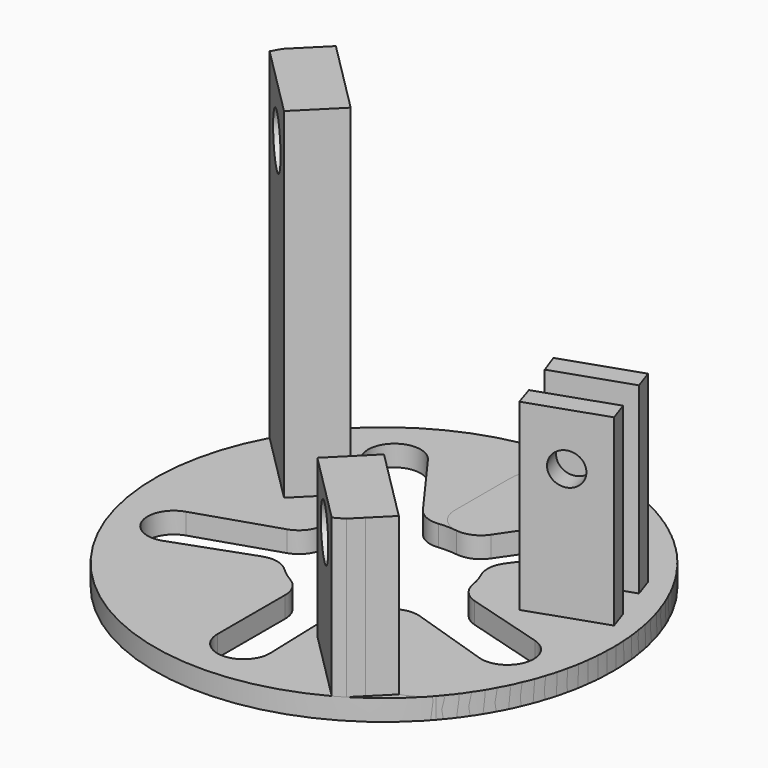
from build123d import *

# Parameters (mm, degrees)
F0_R      = 87.5
F1_DEPTH  = 8
F3_DEPTH  = 60
F4_DEPTH  = 130
F5_R      = 10
F6_DEPTH  = 148.7446867076
F7_R      = 10
F8_DEPTH  = 148.7446867076
F10_DEPTH = 8
F12_DEPTH = 70
F13_R     = 6.25
F14_DEPTH = 126.1216693821


with BuildPart() as f1:
    # F0 (on Top) → F1 (new body)
    with BuildSketch(Plane.XY):
        Circle(F0_R)
        with BuildLine():
            ThreePointArc((9.9951046903, -66.6871386401), (0.0929727344, -76.9995677942), (-9.9991940145, -66.8730391372))
            Line((-9.9991940145, -66.8730391372), (-9.9991940145, -34.6414814748))
            ThreePointArc((-9.9991940145, -34.6414814748), (-11.3389981438, -29.6413807277), (-14.9993955109, -25.9811111061))
            ThreePointArc((-14.9993955109, -25.9811111061), (-17.9741202524, -24.0193880262), (-20.6952632149, -21.7187955575))
            ThreePointArc((-20.6952632149, -21.7187955575), (-25.5295285859, -19.1737499214), (-30.9798903314, -19.549164107))
            Line((-30.9798903314, -19.549164107), (-60.3345805469, -30.1133685928))
            ThreePointArc((-60.3345805469, -30.1133685928), (-73.2022105476, -23.8825973329), (-66.6899605164, -11.1551069337))
            Line((-66.6899605164, -11.1551069337), (-36.0359275713, -1.1950078609))
            ThreePointArc((-36.0359275713, -1.1950078609), (-31.6945714187, 1.6243376914), (-29.3445731363, 6.2366679766))
            ThreePointArc((-29.3445731363, 6.2366679766), (-28.3981041167, 9.6720050961), (-27.0509900775, 12.9708880124))
            ThreePointArc((-27.0509900775, 12.9708880124), (-26.124377996, 18.355009948), (-28.1656725083, 23.4226026389))
            Line((-28.1656725083, 23.4226026389), (-47.2839261652, 48.076053334))
            ThreePointArc((-47.2839261652, 48.076053334), (-45.3344269045, 62.2393109029), (-31.2174682931, 59.978803904))
            Line((-31.2174682931, 59.978803904), (-12.2722340407, 33.902926))
            ThreePointArc((-12.2722340407, 33.902926), (-8.2493242518, 30.6452766301), (-3.1365480727, 29.8355838922))
            ThreePointArc((-3.1365480727, 29.8355838922), (0.4231266922, 29.997015915), (3.9768319177, 29.7352452134))
            ThreePointArc((3.9768319177, 29.7352452134), (9.3837750494, 30.5177699331), (13.5725474053, 34.0251286428))
            Line((13.5725474053, 34.0251286428), (31.1115070552, 59.8260035981))
            ThreePointArc((31.1115070552, 59.8260035981), (45.1839938601, 62.3486069072), (47.3965040686, 48.224046351))
            Line((47.3965040686, 48.224046351), (28.4512698162, 22.1481684469))
            ThreePointArc((28.4512698162, 22.1481684469), (26.5962086468, 17.3154848607), (27.40607982, 12.202736943))
            ThreePointArc((27.40607982, 12.202736943), (28.659610794, 8.8671703004), (29.5088073701, 5.4065041933))
            ThreePointArc((29.5088073701, 5.4065041933), (31.9238699193, 0.5060091315), (36.5539681187, -2.3939166661))
            Line((36.5539681187, -2.3939166661), (66.5118949666, -11.1015496993))
            ThreePointArc((66.5118949666, -11.1015496993), (73.2596708575, -23.705752683), (60.5101187554, -30.1747041841))
            Line((60.5101187554, -30.1747041841), (29.8560858102, -20.2146051112))
            ThreePointArc((29.8560858102, -20.2146051112), (24.6866851674, -19.9437184545), (20.0744368999, -22.2938777056))
            ThreePointArc((20.0744368999, -22.2938777056), (17.2894868828, -24.5168032853), (14.2606140045, -26.3938418616))
            ThreePointArc((14.2606140045, -26.3938418616), (10.3462616131, -30.2050390912), (9.0190473158, -35.5046505087))
            Line((9.0190473158, -35.5046505087), (9.9951046903, -66.6871386401))
        make_face(mode=Mode.SUBTRACT)
    extrude(amount=F1_DEPTH)

    # F2 (on face) → F3 (join)
    with BuildSketch(Plane.XY.offset(8)):
        with BuildLine():
            Line((45.4199012453, -74.7882515564), (49.4974746831, -70.7106781187))
            Line((49.4974746831, -70.7106781187), (21.2132034356, -42.4264068712))
            Line((21.2132034356, -42.4264068712), (14.1421356237, -49.4974746831))
            Line((14.1421356237, -49.4974746831), (41.6150365985, -76.9703756578))
            ThreePointArc((41.6150365985, -76.9703756578), (43.5311442276, -75.9031585788), (45.4199012453, -74.7882515564))
        make_face()
        Polygon((21.2132034356, -42.4264068712), (49.4974746831, -70.7106781187), (56.5685424949, -63.6396103068), (28.2842712475, -35.3553390593), align=None)
    extrude(amount=F3_DEPTH)

    # F2 (on face) → F4 (join)
    with BuildSketch(Plane.XY.offset(8)):
        with BuildLine():
            ThreePointArc((-74.7882515564, 45.4199012453), (-75.9031585788, 43.5311442276), (-76.9703756578, 41.6150365985))
            Line((-76.9703756578, 41.6150365985), (-49.4974746831, 14.1421356237))
            Line((-49.4974746831, 14.1421356237), (-42.4264068712, 21.2132034356))
            Line((-42.4264068712, 21.2132034356), (-70.7106781187, 49.4974746831))
            Line((-70.7106781187, 49.4974746831), (-74.7882515564, 45.4199012453))
        make_face()
        Polygon((-63.6396103068, 56.5685424949), (-70.7106781187, 49.4974746831), (-42.4264068712, 21.2132034356), (-35.3553390593, 28.2842712475), align=None)
    extrude(amount=F4_DEPTH)

    # F5 (on face) → F6 (cut, through all)
    with BuildSketch(Plane(origin=(-17.6776695297, -17.6776695297, 0), x_dir=(0.7071067812, -0.7071067812, 0), z_dir=(-0.7071067812, -0.7071067812, 0))):
        with Locations((-64.4262745781, 118)):
            Circle(F5_R)
    extrude(amount=-F6_DEPTH, mode=Mode.SUBTRACT)

    # F7 (on face) → F8 (cut, through all)
    with BuildSketch(Plane(origin=(-17.6776695297, -17.6776695297, 0), x_dir=(0.7071067812, -0.7071067812, 0), z_dir=(-0.7071067812, -0.7071067812, 0))):
        with Locations((64.4262745781, 53)):
            Circle(F7_R)
    extrude(amount=-F8_DEPTH, mode=Mode.SUBTRACT)


with BuildPart() as f10:
    # F9 (on Top) → F10 (new body)
    with BuildSketch(Plane.XY):
        with BuildLine():
            ThreePointArc((35.0153574254, -56.6812275064), (50.23259463, -64.4163905672), (65.8777196641, -57.5879853082))
            ThreePointArc((65.8777196641, -57.5879853082), (83.2802837423, 26.8448196082), (19.8445700695, 85.2199685447))
            ThreePointArc((19.8445700695, 85.2199685447), (2.873195582, 81.4050586228), (-4.6913316607, 65.7411185916))
            Line((-4.6913316607, 65.7411185916), (-4.6913316607, 39.9998064404))
            ThreePointArc((-4.6913316607, 39.9998064404), (-2.3377421712, 33.1950499324), (3.9768319177, 29.7352452134))
            ThreePointArc((3.9768319177, 29.7352452134), (9.3837750494, 30.5177699331), (13.5725474053, 34.0251286428))
            Line((13.5725474053, 34.0251286428), (31.1115070552, 59.8260035981))
            ThreePointArc((31.1115070552, 59.8260035981), (45.1839938601, 62.3486069072), (47.3965040686, 48.224046351))
            Line((47.3965040686, 48.224046351), (28.4512698162, 22.1481684469))
            ThreePointArc((28.4512698162, 22.1481684469), (26.5962086468, 17.3154848607), (27.40607982, 12.202736943))
            ThreePointArc((27.40607982, 12.202736943), (28.659610794, 8.8671703004), (29.5088073701, 5.4065041933))
            ThreePointArc((29.5088073701, 5.4065041933), (31.9238699193, 0.5060091315), (36.5539681187, -2.3939166661))
            Line((36.5539681187, -2.3939166661), (66.5118949666, -11.1015496993))
            ThreePointArc((66.5118949666, -11.1015496993), (73.2596708575, -23.705752683), (60.5101187554, -30.1747041841))
            Line((60.5101187554, -30.1747041841), (29.8560858102, -20.2146051112))
            ThreePointArc((29.8560858102, -20.2146051112), (24.6866851674, -19.9437184545), (20.0744368999, -22.2938777056))
            ThreePointArc((20.0744368999, -22.2938777056), (16.8055491856, -28.8357347324), (18.8636169945, -35.8532754085))
            Line((18.8636169945, -35.8532754085), (35.0153574254, -56.6812275064))
        make_face()
    extrude(amount=F10_DEPTH)

    # F11 (on face) → F12 (join)
    with BuildSketch(Plane.XY.offset(8)):
        Polygon((40.8227778183, 29.8271468933), (43.5394204286, 22.3025304294), (71.7964546783, 31.975067943), (69.2059565392, 39.5428643499), align=None)
        Polygon((48.0734219083, 9.0570470264), (50.5377755762, 1.4460706764), (78.9209542971, 11.161788133), (76.330456158, 18.7295845399), align=None)
    extrude(amount=F12_DEPTH)

    # F13 (on face) → F14 (cut, through all)
    with BuildSketch(Plane(origin=(4.857498879, -14.1905381084, 0), x_dir=(0.9461059574, 0.3238572486, 0), z_dir=(0.3238572486, -0.9461059574, 0))):
        with Locations((63.282411015, 58)):
            Circle(F13_R)
    extrude(amount=-F14_DEPTH, mode=Mode.SUBTRACT)


solid = Compound([f1.part, f10.part])
